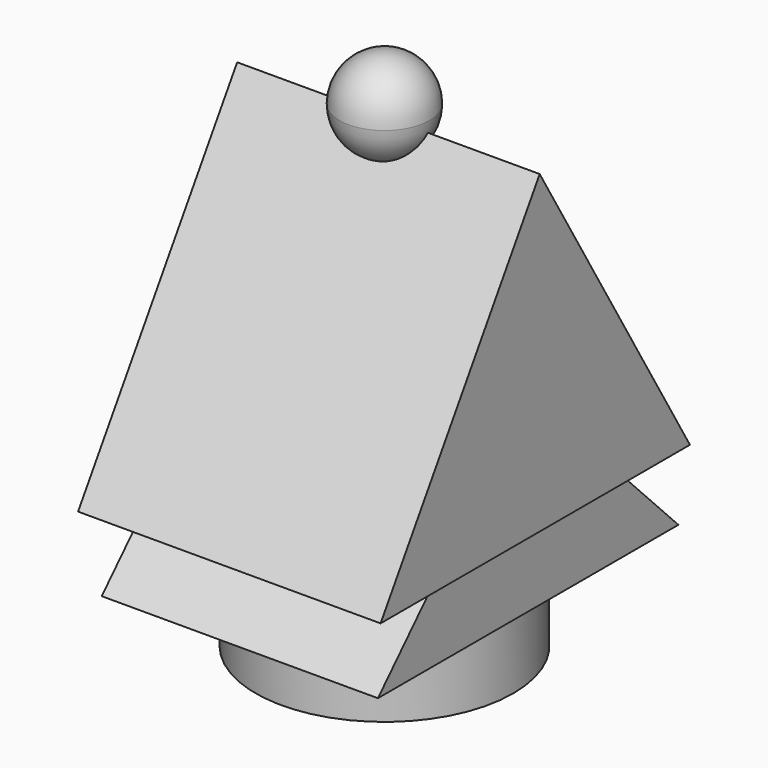
from build123d import *

# Parameters (mm, degrees)
F0_R      = 12.441905201
F1_DEPTH  = 7.112
F3_DEPTH  = 12.954
F4_DEPTH  = 13.716
F6_DEPTH  = 14.986
F7_DEPTH  = 29.21
F8_SCALE  = 0.8
F11_SCALE = 0.7


with BuildPart() as f1:
    # F0 (on Top) → F1 (new body)
    with BuildSketch(Plane.XY):
        Circle(F0_R)
    extrude(amount=F1_DEPTH)


with BuildPart() as f3:
    # F2 (on Right) → F3 (new body)
    with BuildSketch(Plane.YZ):
        Polygon((-17.9332774132, 7.2915516794), (18.3274131268, 7.2915516794), (0, 26.0131042451), align=None)
    extrude(amount=-F3_DEPTH)

    # F2 (on Right) → F4 (join)
    with BuildSketch(Plane.YZ):
        Polygon((-17.9332774132, 7.2915516794), (18.3274131268, 7.2915516794), (0, 26.0131042451), align=None)
    extrude(amount=F4_DEPTH)

    # F5 (on Right) → F6 (join)
    with BuildSketch(Plane.YZ):
        Polygon((-16.9714745134, 14.5818628371), (18.1345995516, 14.5818628371), (0, 44.9712537229), (-19.2022267729, 14.5818628371), align=None)
    extrude(amount=F6_DEPTH)

    # F7 (add): a face of the model
    f7_faces = [f3.faces().sort_by_distance(p)[0] for p in [
        (14.986, -0.3558757404, 24.711659799),
    ]]
    extrude(f7_faces, amount=-F7_DEPTH)


with BuildPart() as f3_1:
    # F8: moved
    add(f3.part.scale(F8_SCALE))


with BuildPart() as f1_1:
    # F8: moved
    add(f1.part.scale(F8_SCALE))


with BuildPart() as f10:
    # F9 (on Right) → F10 (revolve)
    with BuildSketch(Plane.YZ):
        with BuildLine():
            ThreePointArc((0, 33.3653904855), (2.46533299, 34.3865648457), (3.4865073503, 36.8518978357))
            ThreePointArc((3.4865073503, 36.8518978357), (2.46533299, 39.3172308258), (0, 40.338405186))
            Line((0, 40.338405186), (0, 33.3653904855))
        make_face()
    revolve(axis=Axis((0, 0, 36.8518978357), (0, 0, 1)))


with BuildPart() as f1_2:
    # F11: moved
    add(f1_1.part.scale(F11_SCALE))


with BuildPart() as f3_2:
    # F11: moved
    add(f3_1.part.scale(F11_SCALE))


with BuildPart() as f10_1:
    # F11: moved
    add(f10.part.scale(F11_SCALE))


solid = Compound([f1_2.part, f3_2.part, f10_1.part])
